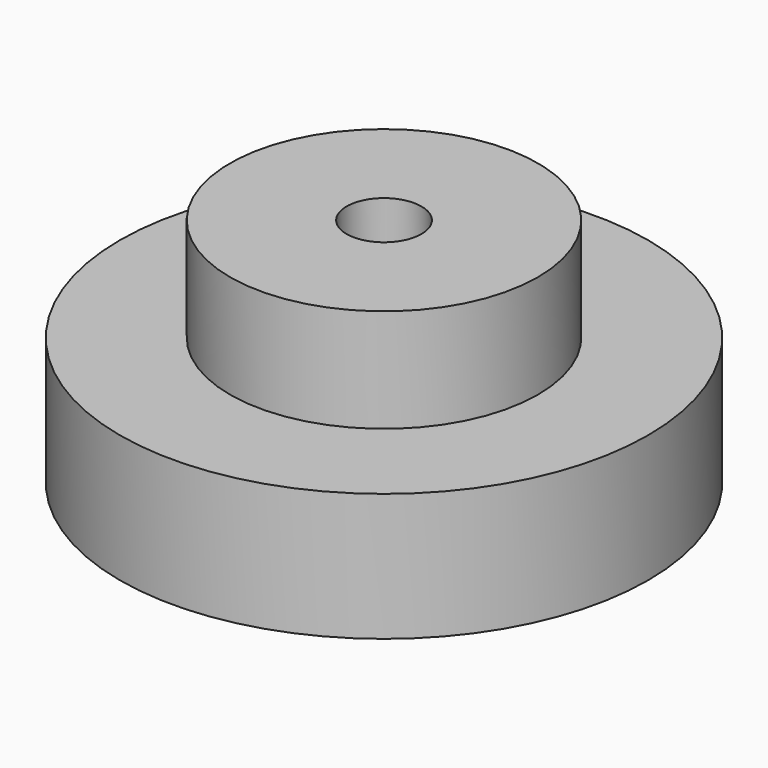
from build123d import *

# Parameters (mm, degrees)
F2_R      = 0.75
F3_DEPTH  = 3
F5_R      = 0.75
F6_DEPTH  = 2.5
F8_R      = 0.9
F9_DEPTH  = 2
F11_R     = 0.9
F12_DEPTH = 1
F14_R     = 1.7
F15_DEPTH = 2


with BuildPart() as f1:
    # F0 (on Front) → F1 (revolve)
    with BuildSketch(Plane.XZ):
        Polygon((0, 3), (0, 0), (3.5, 0), (3.5, 2.29), (4.21, 3), align=None)
    revolve(axis=Axis((0, 0, 1.5), (0, 0, -1)))

    # F2 (on face) → F3 (cut, through all)
    with BuildSketch(Plane(origin=(0, 0, 0), x_dir=(1, 0, 0), z_dir=(0, 0, -1))):
        Circle(F2_R)
    extrude(amount=-F3_DEPTH, mode=Mode.SUBTRACT)


with BuildPart() as f4:
    # F0 (on Front) → F4 (revolve)
    with BuildSketch(Plane.XZ):
        Polygon((3.5, 2.29), (3.5, 0), (5.5, 0), (5.5, 2.29), (6.81, 3.6), (2, 3.6), (2, 5.5), (0, 5.5), (0, 3), (4.21, 3), align=None)
    revolve(axis=Axis((0, 0, 2.75), (0, 0, -1)))

    # F5 (on face) → F6 (cut, through all)
    with BuildSketch(Plane.XY.offset(5.5)):
        Circle(F5_R)
    extrude(amount=-F6_DEPTH, mode=Mode.SUBTRACT)


with BuildPart() as f7:
    # F0 (on Front) → F7 (revolve)
    with BuildSketch(Plane.XZ):
        Polygon((5.5, 2.29), (5.5, 0), (6.5, 0), (6.5, 2.29), (8.41, 4.2), (4, 4.2), (4, 6.5), (2, 6.5), (2, 7.5), (0, 7.5), (0, 5.5), (2, 5.5), (2, 3.6), (6.81, 3.6), align=None)
    revolve(axis=Axis((0, 0, 3.75), (0, 0, -1)))

    # F8 (on face) → F9 (cut, through all)
    with BuildSketch(Plane.XY.offset(7.5)):
        Circle(F8_R)
    extrude(amount=-F9_DEPTH, mode=Mode.SUBTRACT)


with BuildPart() as f10:
    # F0 (on Front) → F10 (revolve)
    with BuildSketch(Plane.XZ):
        Polygon((6.5, 2.29), (6.5, 0), (8.5, 0), (8.5, 2.29), (11.01, 4.8), (6, 4.8), (6, 8.5), (0, 8.5), (0, 7.5), (2, 7.5), (2, 6.5), (4, 6.5), (4, 4.2), (8.41, 4.2), align=None)
    revolve(axis=Axis((0, 0, 4.25), (0, 0, -1)))

    # F11 (on face) → F12 (cut, through all)
    with BuildSketch(Plane.XY.offset(8.5)):
        Circle(F11_R)
    extrude(amount=-F12_DEPTH, mode=Mode.SUBTRACT)


with BuildPart() as f13:
    # F0 (on Front) → F13 (revolve)
    with BuildSketch(Plane.XZ):
        Polygon((8.5, 2.29), (8.5, 0), (12, 0), (12, 5.8), (7, 5.8), (7, 10.5), (0, 10.5), (0, 8.5), (6, 8.5), (6, 4.8), (11.01, 4.8), align=None)
    revolve(axis=Axis((0, 0, 5.25), (0, 0, -1)))

    # F14 (on face) → F15 (cut, through all)
    with BuildSketch(Plane.XY.offset(10.5)):
        Circle(F14_R)
    extrude(amount=-F15_DEPTH, mode=Mode.SUBTRACT)


solid = Compound([f1.part, f4.part, f7.part, f10.part, f13.part])
